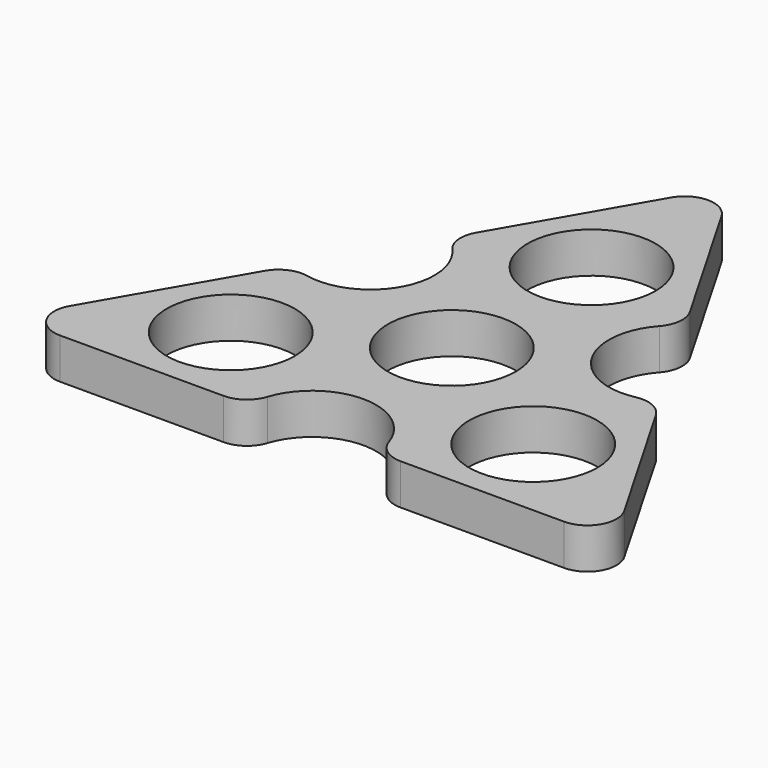
from build123d import *

# Parameters (mm, degrees)
F0_R     = 11
F1_DEPTH = 7
F2_R     = 5


with BuildPart() as f1:
    # F0 (on Top) → F1 (new body)
    with BuildSketch(Plane.XY):
        with BuildLine():
            ThreePointArc((-20.480762, 24.526279), (-16.454483, 9.5), (-31.480762, 5.473721))
            Line((-31.480762, 5.473721), (-51.961524, -30))
            Line((-51.961524, -30), (-11, -30))
            ThreePointArc((-11, -30), (0, -19), (11, -30))
            Line((11, -30), (51.961524, -30))
            Line((51.961524, -30), (31.480762, 5.473721))
            ThreePointArc((31.480762, 5.473721), (16.454483, 9.5), (20.480762, 24.526279))
            Line((20.480762, 24.526279), (0, 60))
            Line((0, 60), (-20.480762, 24.526279))
        make_face()
        with Locations((-25.980762, -15)):
            Circle(F0_R, mode=Mode.SUBTRACT)
        with Locations((25.980762, -15)):
            Circle(F0_R, mode=Mode.SUBTRACT)
        Circle(F0_R, mode=Mode.SUBTRACT)
        with Locations((0, 30)):
            Circle(F0_R, mode=Mode.SUBTRACT)
    extrude(amount=F1_DEPTH)

    # F2
    f2_edges = [f1.edges().sort_by_distance(p)[0] for p in [
        (-51.961524, -30, 3.5),
        (51.961524, -30, 3.5),
        (0, 60, 3.5),
        (-11, -30, 3.5),
        (11, -30, 3.5),
        (31.480762, 5.473721, 3.5),
        (20.480762, 24.526279, 3.5),
        (-20.480762, 24.526279, 3.5),
        (-31.480762, 5.473721, 3.5),
    ]]
    fillet(f2_edges, radius=F2_R)


solid = f1.part
